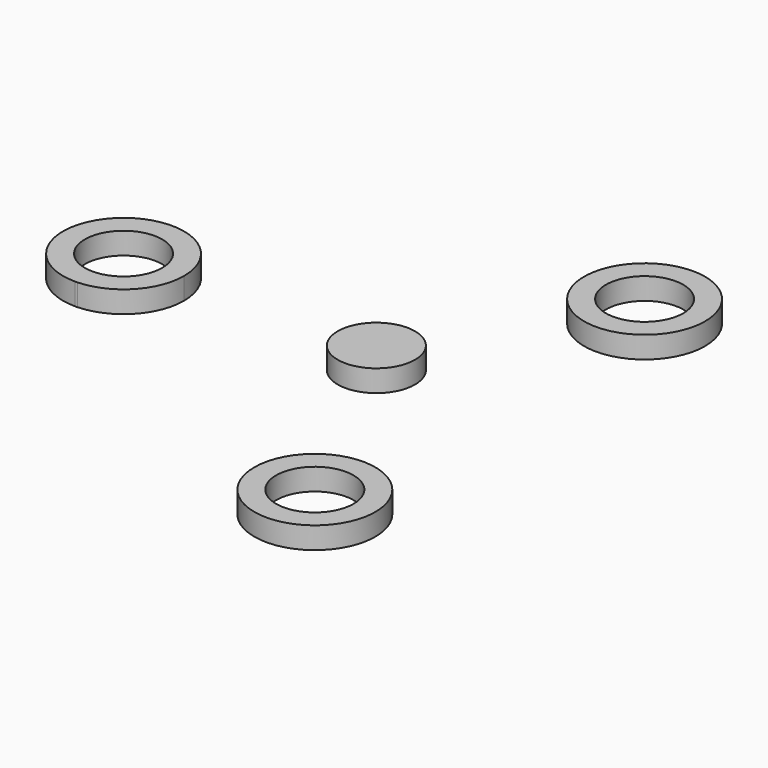
from build123d import *

# Parameters (mm, degrees)
F0_R     = 11.2522
F0_R_2   = 17.6022
F1_DEPTH = 6.35


with BuildPart() as f1:
    # F0 (on Top) → F1 (new body)
    with BuildSketch(Plane.XY):
        with Locations((50.573707, 0.589635)):
            Circle(F0_R)
        with BuildLine():
            ThreePointArc((-21.812574, -17.588599), (-9.815525, -12.199586), (-4.9022, 0))
            ThreePointArc((-4.9022, 0), (-34.951035, 12.446635), (-22.5044, -17.6022))
            ThreePointArc((-22.5044, -17.6022), (-22.158498, -17.594826), (-21.812574, -17.588599))
        make_face()
        with Locations((-22.5044, 0)):
            Circle(F0_R, mode=Mode.SUBTRACT)
        with BuildLine():
            ThreePointArc((101.548586, -63.499517), (83.946386, -45.897317), (66.344186, -63.499517))
            ThreePointArc((66.344186, -63.499517), (83.946386, -81.101717), (101.548586, -63.499517))
        make_face()
        with Locations((83.946386, -63.499517)):
            Circle(F0_R, mode=Mode.SUBTRACT)
        with BuildLine():
            ThreePointArc((-21.812574, -17.588599), (-22.158498, -17.594826), (-22.5044, -17.6022))
            ThreePointArc((-22.5044, -17.6022), (-22.15842, -17.598799), (-21.812574, -17.588599))
        make_face()
        with Locations((83.857372, 56.5083)):
            Circle(F0_R_2)
        with Locations((83.857372, 56.5083)):
            Circle(F0_R, mode=Mode.SUBTRACT)
    extrude(amount=F1_DEPTH)


solid = f1.part
